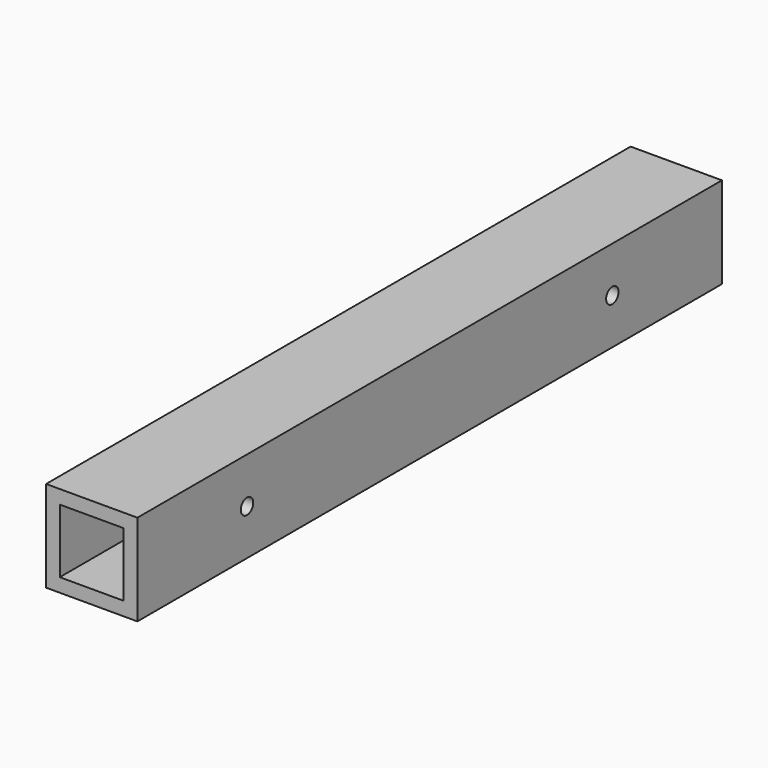
from build123d import *

# Parameters (mm, degrees)
F0_W     = 100
F0_H     = 100
F0_W_2   = 70
F0_H_2   = 70
F1_DEPTH = 800
F3_D     = 17


with BuildPart() as f1:
    # F0 (on Front) → F1 (new body)
    with BuildSketch(Plane.XZ):
        Rectangle(F0_W, F0_H)
        Rectangle(F0_W_2, F0_H_2, mode=Mode.SUBTRACT)
    extrude(amount=-F1_DEPTH)

    # F3 (through all)
    with Locations(Plane.YZ.offset(50)):
        with Locations((150, 0), (650, 0)):
            Hole(F3_D / 2)


solid = f1.part
